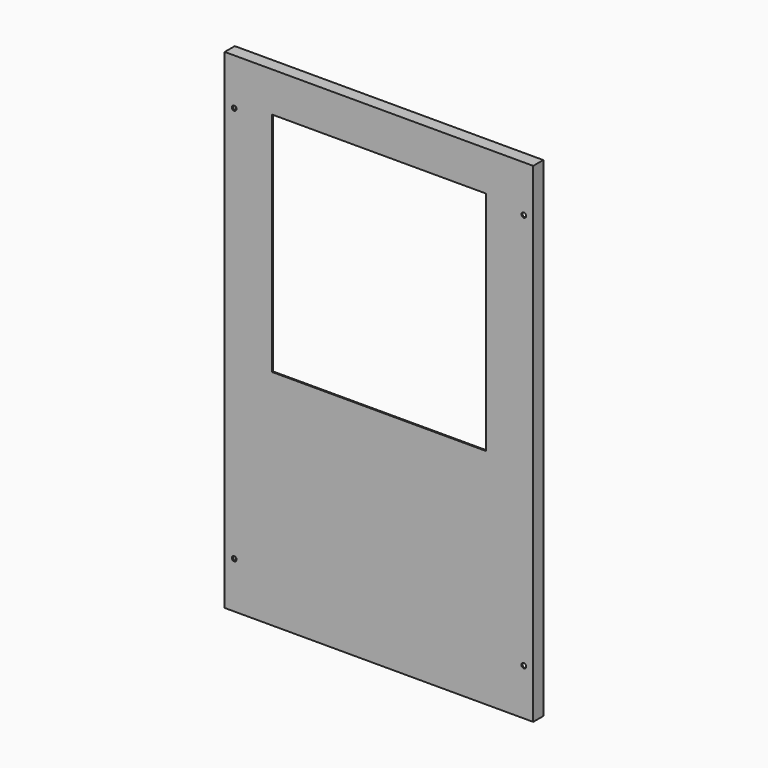
from build123d import *

# Parameters (mm, degrees)
F0_W     = 622.3
F0_H     = 987.425
F0_R     = 4.7625
F0_W_2   = 431.8
F0_H_2   = 457.2
F1_DEPTH = 25.4
F2_T     = -2.54
F3_W     = 617.22
F3_H     = 22.86
F4_DEPTH = 982.345


with BuildPart() as f1:
    # F0 (on Front) → F1 (new body)
    with BuildSketch(Plane.XZ):
        with Locations((0, 493.7125)):
            Rectangle(F0_W, F0_H)
        with Locations((-292.1, 93.6625)):
            Circle(F0_R, mode=Mode.SUBTRACT)
        with Locations((292.1, 93.6625)):
            Circle(F0_R, mode=Mode.SUBTRACT)
        with Locations((-292.1, 893.7625)):
            Circle(F0_R, mode=Mode.SUBTRACT)
        with Locations((0, 678.66514)):
            Rectangle(F0_W_2, F0_H_2, mode=Mode.SUBTRACT)
        with Locations((292.1, 893.7625)):
            Circle(F0_R, mode=Mode.SUBTRACT)
    extrude(amount=F1_DEPTH)

    # F2
    f2_openings = [f1.faces().sort_by_distance(p)[0] for p in [
        (0, 0, 406.102773),
    ]]
    offset(amount=F2_T, openings=f2_openings, kind=Kind.INTERSECTION)

    # F3 (on face) → F4 (cut, through all)
    with BuildSketch(Plane.XY.offset(2.54)):
        with Locations((0, -11.43)):
            Rectangle(F3_W, F3_H)
    extrude(amount=F4_DEPTH, mode=Mode.SUBTRACT)


solid = f1.part
